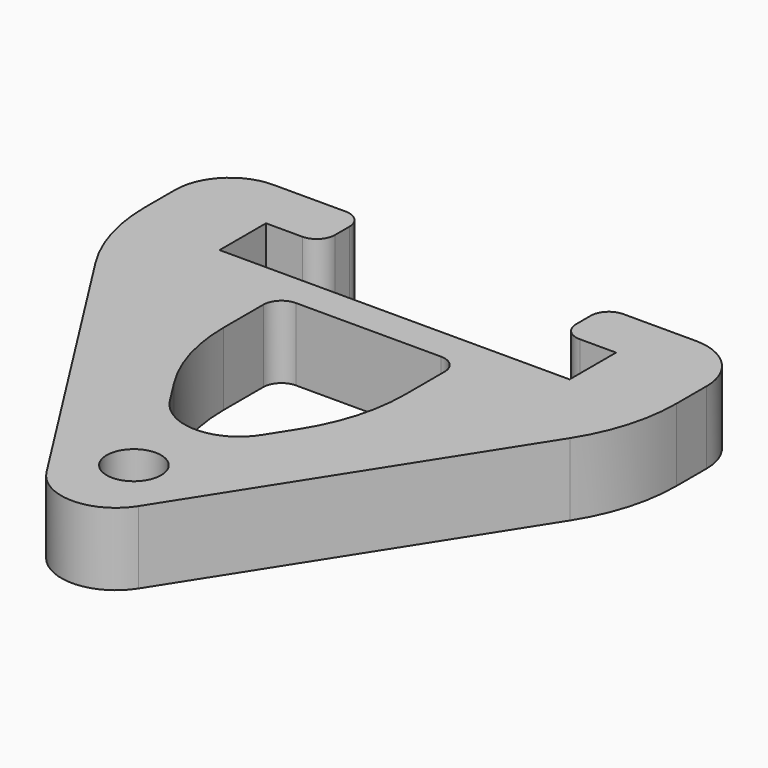
from build123d import *

# Parameters (mm, degrees)
F1_R     = 1.5
F2_DEPTH = 4


with BuildPart() as f2:
    # F1 (on Top) → F2 (new body)
    with BuildSketch(Plane.XY):
        with BuildLine():
            Line((-13.0843491479, 20.5419815973), (-2.5303047444, 3.9724920901))
            ThreePointArc((-2.5303047444, 3.9724920901), (0, 2.584186199), (2.5303047444, 3.9724920901))
            Line((2.5303047444, 3.9724920901), (13.0843491479, 20.5419815973))
            ThreePointArc((13.0843491479, 20.5419815973), (14.2506117378, 23.1163935333), (14.65, 25.9142952937))
            Line((14.65, 25.9142952937), (14.65, 28))
            ThreePointArc((14.65, 28), (13.7713203436, 30.1213203436), (11.65, 31))
            Line((11.65, 31), (7.65, 31))
            ThreePointArc((7.65, 31), (6.9428932188, 30.7071067812), (6.65, 30))
            Line((6.65, 30), (6.65, 29))
            ThreePointArc((6.65, 29), (6.9428932188, 28.2928932188), (7.65, 28))
            Line((7.65, 28), (9.65, 28))
            Line((9.65, 28), (9.65, 24.8))
            Line((9.65, 24.8), (-9.65, 24.8))
            Line((-9.65, 24.8), (-9.65, 28))
            Line((-9.65, 28), (-7.65, 28))
            ThreePointArc((-7.65, 28), (-6.9428932188, 28.2928932188), (-6.65, 29))
            Line((-6.65, 29), (-6.65, 30))
            ThreePointArc((-6.65, 30), (-6.9428932188, 30.7071067812), (-7.65, 31))
            Line((-7.65, 31), (-11.65, 31))
            ThreePointArc((-11.65, 31), (-13.7713203436, 30.1213203436), (-14.65, 28))
            Line((-14.65, 28), (-14.65, 25.9142952937))
            ThreePointArc((-14.65, 25.9142952937), (-14.2506117378, 23.1163935333), (-13.0843491479, 20.5419815973))
        make_face()
        with Locations((0, 6.8340155506)):
            Circle(F1_R, mode=Mode.SUBTRACT)
        with BuildLine():
            Line((-5, 19.2637833483), (-5, 22))
            ThreePointArc((-5, 22), (-4.7071067812, 22.7071067812), (-4, 23))
            Line((-4, 23), (4, 23))
            ThreePointArc((4, 23), (4.7071067812, 22.7071067812), (5, 22))
            Line((5, 22), (5, 19.2637833483))
            ThreePointArc((5, 19.2637833483), (4.6006117378, 16.4658815879), (3.4343491479, 13.8914696519))
            Line((3.4343491479, 13.8914696519), (2.5303047444, 12.4721507932))
            ThreePointArc((2.5303047444, 12.4721507932), (0, 11.0838449021), (-2.5303047444, 12.4721507932))
            Line((-2.5303047444, 12.4721507932), (-3.4343491479, 13.8914696519))
            ThreePointArc((-3.4343491479, 13.8914696519), (-4.6006117378, 16.4658815879), (-5, 19.2637833483))
        make_face(mode=Mode.SUBTRACT)
        with BuildLine():
            Line((-13.0843491479, 20.5419815973), (-2.5303047444, 3.9724920901))
            ThreePointArc((-2.5303047444, 3.9724920901), (0, 2.584186199), (2.5303047444, 3.9724920901))
            Line((2.5303047444, 3.9724920901), (13.0843491479, 20.5419815973))
            ThreePointArc((13.0843491479, 20.5419815973), (14.2506117378, 23.1163935333), (14.65, 25.9142952937))
            Line((14.65, 25.9142952937), (14.65, 28))
            ThreePointArc((14.65, 28), (13.7713203436, 30.1213203436), (11.65, 31))
            Line((11.65, 31), (7.65, 31))
            ThreePointArc((7.65, 31), (6.9428932188, 30.7071067812), (6.65, 30))
            Line((6.65, 30), (6.65, 29))
            ThreePointArc((6.65, 29), (6.9428932188, 28.2928932188), (7.65, 28))
            Line((7.65, 28), (9.65, 28))
            Line((9.65, 28), (9.65, 24.8))
            Line((9.65, 24.8), (-9.65, 24.8))
            Line((-9.65, 24.8), (-9.65, 28))
            Line((-9.65, 28), (-7.65, 28))
            ThreePointArc((-7.65, 28), (-6.9428932188, 28.2928932188), (-6.65, 29))
            Line((-6.65, 29), (-6.65, 30))
            ThreePointArc((-6.65, 30), (-6.9428932188, 30.7071067812), (-7.65, 31))
            Line((-7.65, 31), (-11.65, 31))
            ThreePointArc((-11.65, 31), (-13.7713203436, 30.1213203436), (-14.65, 28))
            Line((-14.65, 28), (-14.65, 25.9142952937))
            ThreePointArc((-14.65, 25.9142952937), (-14.2506117378, 23.1163935333), (-13.0843491479, 20.5419815973))
        make_face()
        with Locations((0, 6.8340155506)):
            Circle(F1_R, mode=Mode.SUBTRACT)
        with BuildLine():
            Line((-5, 19.2637833483), (-5, 22))
            ThreePointArc((-5, 22), (-4.7071067812, 22.7071067812), (-4, 23))
            Line((-4, 23), (4, 23))
            ThreePointArc((4, 23), (4.7071067812, 22.7071067812), (5, 22))
            Line((5, 22), (5, 19.2637833483))
            ThreePointArc((5, 19.2637833483), (4.6006117378, 16.4658815879), (3.4343491479, 13.8914696519))
            Line((3.4343491479, 13.8914696519), (2.5303047444, 12.4721507932))
            ThreePointArc((2.5303047444, 12.4721507932), (0, 11.0838449021), (-2.5303047444, 12.4721507932))
            Line((-2.5303047444, 12.4721507932), (-3.4343491479, 13.8914696519))
            ThreePointArc((-3.4343491479, 13.8914696519), (-4.6006117378, 16.4658815879), (-5, 19.2637833483))
        make_face(mode=Mode.SUBTRACT)
    extrude(amount=F2_DEPTH)


solid = f2.part
